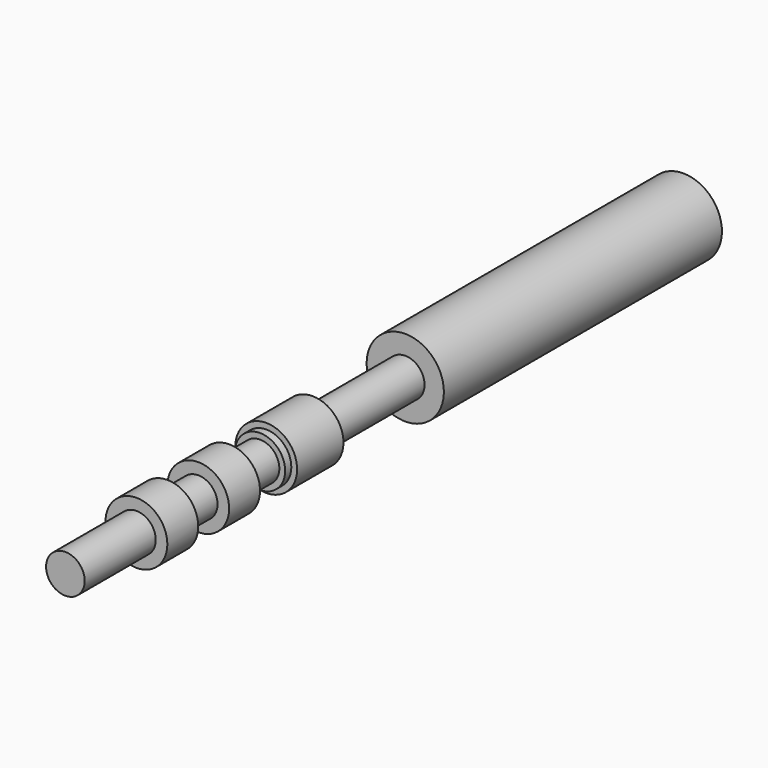
from build123d import *


with BuildPart() as f1:
    # F0 (on Right) → F1 (revolve)
    with BuildSketch(Plane.YZ):
        Polygon((-12.7, 0), (0, 0), (12.7, 0), (12.7, 1.27), (1.27, 1.27), (1.27, 0.635), (-2.54, 0.635), (-2.54, 1.016), (-4.445, 1.016), (-4.445, 0.8255), (-4.699, 0.8255), (-4.699, 0.635), (-5.969, 0.635), (-5.969, 1.016), (-7.239, 1.016), (-7.239, 0.635), (-8.509, 0.635), (-8.509, 1.016), (-9.779, 1.016), (-9.779, 0.635), (-12.7, 0.635), align=None)
    revolve(axis=Axis((0, -6.35, 0), (0, -1, 0)))


solid = f1.part
